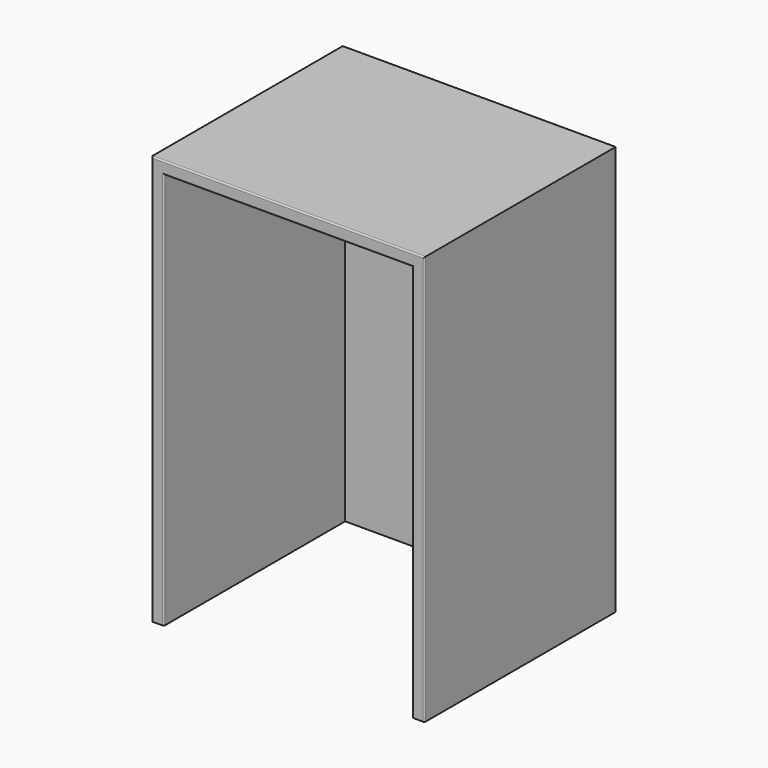
from build123d import *

# Parameters (mm, degrees)
F0_W     = 48.4505593777
F0_H     = 45.2879294753
F1_DEPTH = 350
F2_DEPTH = 18
F3_DEPTH = 600
F4_DEPTH = 400
F5_T     = -18
F6_R     = 2
F7_R     = 2


with BuildPart() as f1:
    # F0 (on Front) → F1 (new body)
    with BuildSketch(Plane.XZ):
        with Locations((24.2252796888, 22.6439647377)):
            Rectangle(F0_W, F0_H)
    extrude(amount=F1_DEPTH)

    # F2 (intersect): a face of the model
    f2_faces = [f1.faces().sort_by_distance(p)[0] for p in [
        (0, -175, 22.6439647377),
    ]]
    extrude(f2_faces, amount=-F2_DEPTH, mode=Mode.INTERSECT)

    # F3 (add): a face of the model
    f3_faces = [f1.faces().sort_by_distance(p)[0] for p in [
        (9, -175, 0),
    ]]
    extrude(f3_faces, amount=-F3_DEPTH)

    # F4 (add): a face of the model
    f4_faces = [f1.faces().sort_by_distance(p)[0] for p in [
        (0, -175, 300),
    ]]
    extrude(f4_faces, amount=-F4_DEPTH)

    # F5
    f5_openings = [f1.faces().sort_by_distance(p)[0] for p in [
        (200, -350, 300),
        (200, -175, 0),
    ]]
    offset(amount=F5_T, openings=f5_openings)

    # F6
    f6_edges = [f1.edges().sort_by_distance(p)[0] for p in [
        (400, -350, 300),
        (200, -350, 600),
        (0, -350, 300),
    ]]
    fillet(f6_edges, radius=F6_R)

    # F7
    f7_edges = [f1.edges().sort_by_distance(p)[0] for p in [
        (18, -350, 291),
        (382, -350, 291),
        (200, -350, 582),
    ]]
    fillet(f7_edges, radius=F7_R)


solid = f1.part
